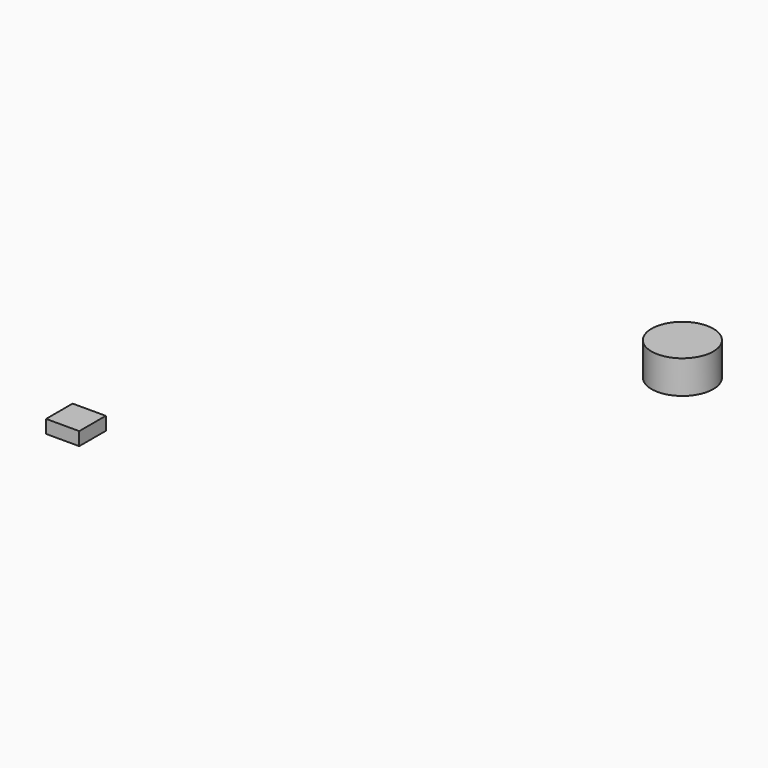
from build123d import *

# Parameters (mm, degrees)
SKETCH004_W  = 5
SKETCH004_H  = 5
PAD002_DEPTH = 2
SKETCH003_R  = 4.658459
PAD001_DEPTH = 5


with BuildPart() as body002:
    # Sketch004 → Pad002 (new body)
    with BuildSketch(Plane.XY):
        with Locations((-12.349656, 7.303812)):
            Rectangle(SKETCH004_W, SKETCH004_H)
    extrude(amount=PAD002_DEPTH)


with BuildPart() as fusion:
    # Sketch003 → Pad001 (new body)
    with BuildSketch(Plane.XY):
        with Locations((34.701851, 62.798054)):
            Circle(SKETCH003_R)
    extrude(amount=PAD001_DEPTH)

    # Fusion: union Body002
    add(body002.part)


solid = fusion.part
